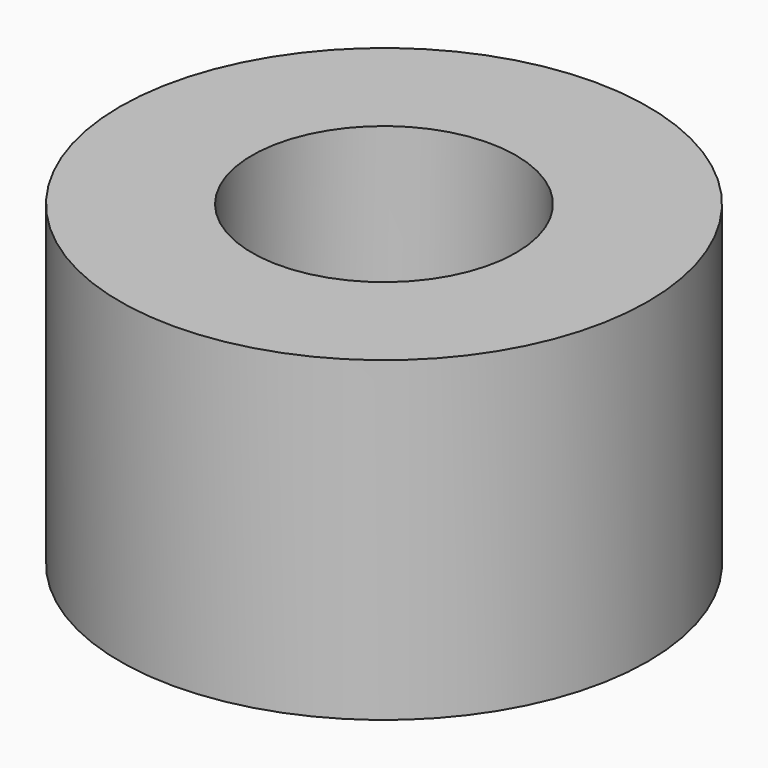
from build123d import *

# Parameters (mm, degrees)
CYLINDER001_R     = 2.5
CYLINDER001_DEPTH = 6
CYLINDER_R        = 5
CYLINDER_DEPTH    = 6


with BuildPart() as cylindre001:
    # Cylinder001 → Cylinder001 (new body)
    with BuildSketch(Plane.XY):
        Circle(CYLINDER001_R)
    extrude(amount=CYLINDER001_DEPTH)


with BuildPart() as cut:
    # Cylinder → Cylinder (new body)
    with BuildSketch(Plane.XY):
        Circle(CYLINDER_R)
    extrude(amount=CYLINDER_DEPTH)

    # Cut: cut Cylindre001
    add(cylindre001.part, mode=Mode.SUBTRACT)


solid = cut.part
